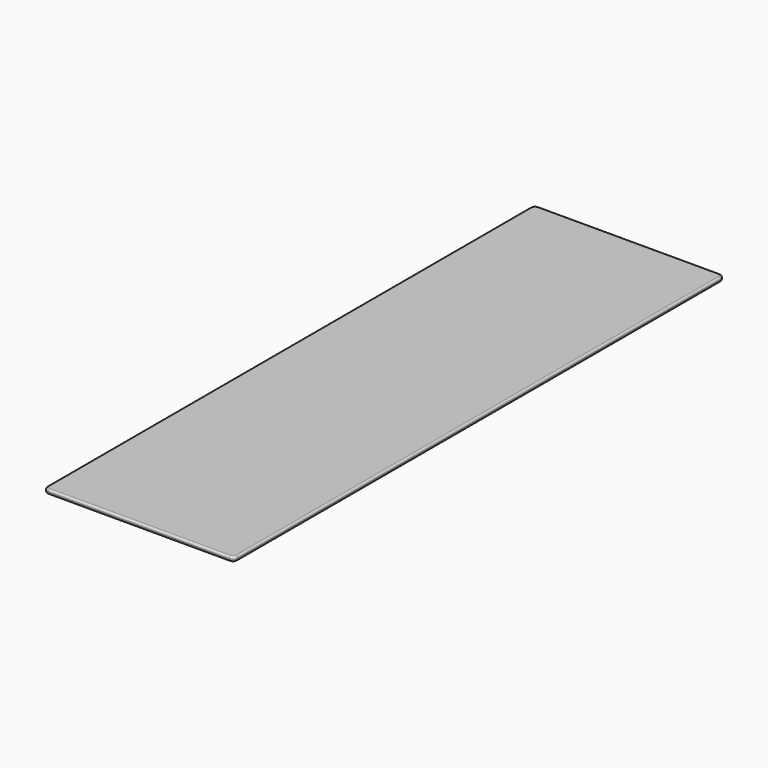
from build123d import *

# Parameters (mm, degrees)
SKETCH001_W  = 49.5
SKETCH001_H  = 159.5
PAD001_DEPTH = 1.2
FILLET004_R  = 1.2
FILLET005_R  = 0.5
FILLET006_R  = 0.5


with BuildPart() as part:
    # Sketch001 → Pad001 (new body)
    with BuildSketch(Plane.XY):
        with Locations((14.91, -79.75)):
            Rectangle(SKETCH001_W, SKETCH001_H)
    extrude(amount=PAD001_DEPTH)

    # Fillet004
    fillet004_edges = [part.edges().sort_by_distance(p)[0] for p in [
        (39.66, -159.5, 0.6),
        (39.66, 0, 0.6),
        (-9.84, 0, 0.6),
        (-9.84, -159.5, 0.6),
    ]]
    fillet(fillet004_edges, radius=FILLET004_R)

    # Fillet005
    fillet005_edges = [part.edges().sort_by_distance(p)[0] for p in [
        (-9.84, -79.75, 0),
    ]]
    fillet(fillet005_edges, radius=FILLET005_R)

    # Fillet006
    fillet006_edges = [part.edges().sort_by_distance(p)[0] for p in [
        (-9.84, -79.75, 1.2),
    ]]
    fillet(fillet006_edges, radius=FILLET006_R)


solid = part.part
